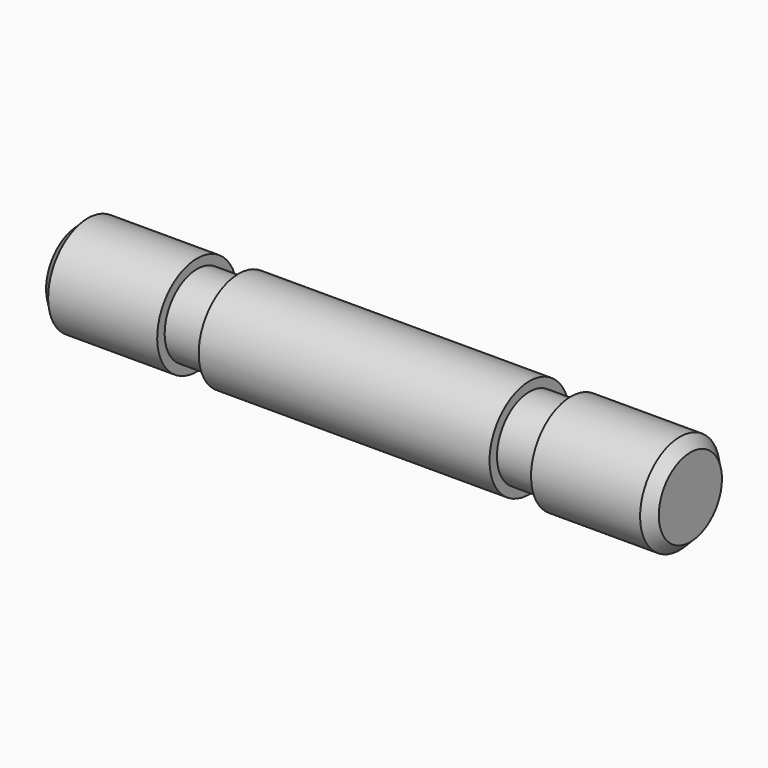
from build123d import *

# Parameters (mm, degrees)
F2_SIZE = 1


with BuildPart() as f1:
    # F0 (on Front) → F1 (revolve)
    with BuildSketch(Plane.XZ):
        Polygon((-18, 4.8), (-29.5, 4.8), (-29.5, 0), (29.5, 0), (29.5, 4.8), (18, 4.8), (18, 3.9), (14, 3.9), (14, 4.8), (-14, 4.8), (-14, 3.9), (-18, 3.9), align=None)
    revolve(axis=Axis((0, 0, 0), (1, 0, 0)))

    # F2
    f2_edges = [f1.edges().sort_by_distance(p)[0] for p in [
        (-29.5, 0, -4.8),
        (29.5, 0, -4.8),
    ]]
    chamfer(f2_edges, length=F2_SIZE)


solid = f1.part
